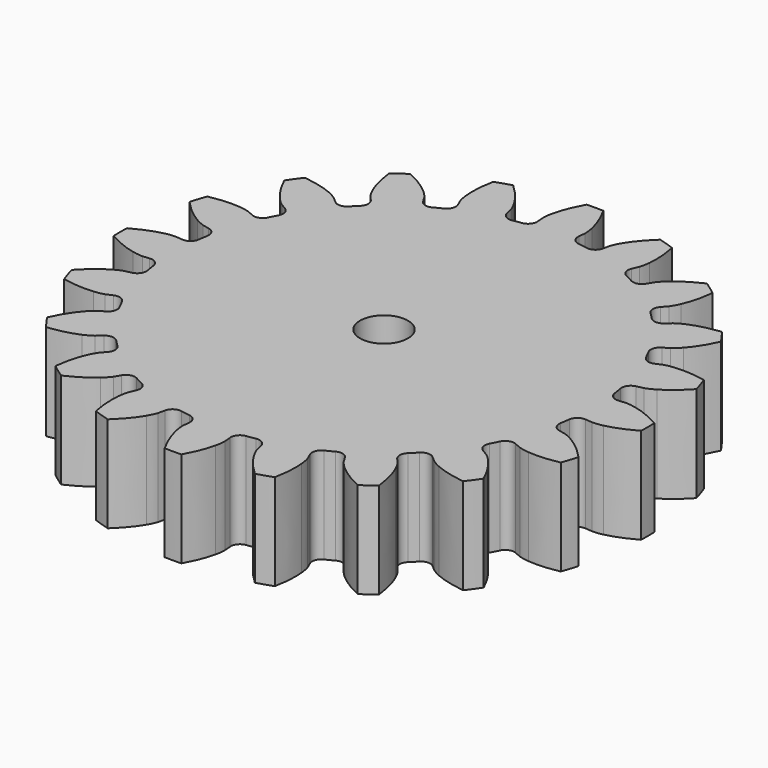
from build123d import *

# Parameters (mm, degrees)
PAD_DEPTH    = 10
SKETCH_R     = 2.5
POCKET_DEPTH = 10.001


with BuildPart() as part:
    # InvoluteGear → Pad (new body)
    with BuildSketch(Plane.XY):
        with BuildLine():
            Line((22.725421, -2.129761), (23.434636, -2.194343))
            add(Edge.make_bspline(
                [(23.434636, -2.194343), (23.552721, -2.198117), (23.908158, -2.19505), (24.50119, -2.06665)],
                knots=[0, 0, 0, 0, 1, 1, 1, 1], degree=3))
            add(Edge.make_bspline(
                [(24.50119, -2.06665), (25.210586, -1.910694), (26.231456, -1.576838), (27.489054, -0.867419)],
                knots=[0, 0, 0, 0, 1, 1, 1, 1], degree=3))
            ThreePointArc((27.489054, -0.867419), (27.501369, 0.00054), (27.486284, 0.868456))
            add(Edge.make_bspline(
                [(27.486284, 0.868456), (26.231456, 1.576838), (25.210586, 1.910694), (24.50119, 2.06665)],
                knots=[0, 0, 0, 0, 1, 1, 1, 1], degree=3))
            add(Edge.make_bspline(
                [(24.50119, 2.06665), (23.908158, 2.19505), (23.552721, 2.198117), (23.434636, 2.194343)],
                knots=[0, 0, 0, 0, 1, 1, 1, 1], degree=3))
            Line((23.434636, 2.194343), (22.725421, 2.129761))
            ThreePointArc((22.725421, 2.129761), (22.034333, 2.323322), (21.675845, 2.945057))
            ThreePointArc((21.675845, 2.945057), (21.605682, 3.422004), (21.525026, 3.897289))
            ThreePointArc((21.525026, 3.897289), (21.673842, 4.599373), (22.271292, 4.997018))
            Line((22.271292, 4.997018), (22.965753, 5.154757))
            add(Edge.make_bspline(
                [(22.965753, 5.154757), (23.079224, 5.187658), (23.416317, 5.300411), (23.940647, 5.605783)],
                knots=[0, 0, 0, 0, 1, 1, 1, 1], degree=3))
            add(Edge.make_bspline(
                [(23.940647, 5.605783), (24.567129, 5.973321), (25.434867, 6.606304), (26.411691, 7.66962)],
                knots=[0, 0, 0, 0, 1, 1, 1, 1], degree=3))
            ThreePointArc((26.411691, 7.66962), (26.155189, 8.498904), (25.872642, 9.319679))
            add(Edge.make_bspline(
                [(25.872642, 9.319679), (24.460327, 9.605627), (23.386255, 9.607678), (22.663387, 9.536785)],
                knots=[0, 0, 0, 0, 1, 1, 1, 1], degree=3))
            add(Edge.make_bspline(
                [(22.663387, 9.536785), (22.059702, 9.475643), (21.720713, 9.368724), (21.609574, 9.328645)],
                knots=[0, 0, 0, 0, 1, 1, 1, 1], degree=3))
            Line((21.609574, 9.328645), (20.955027, 9.048064))
            ThreePointArc((20.955027, 9.048064), (20.23795, 9.018594), (19.704881, 9.49912))
            ThreePointArc((19.704881, 9.49912), (19.490768, 9.931042), (19.267188, 10.358141))
            ThreePointArc((19.267188, 10.358141), (19.191764, 11.071849), (19.637094, 11.634654))
            Line((19.637094, 11.634654), (20.248821, 11.999273))
            add(Edge.make_bspline(
                [(20.248821, 11.999273), (20.346572, 12.065628), (20.632324, 12.27703), (21.036626, 12.729483)],
                knots=[0, 0, 0, 0, 1, 1, 1, 1], degree=3))
            add(Edge.make_bspline(
                [(21.036626, 12.729483), (21.51887, 13.272627), (22.148536, 14.142774), (22.748967, 15.455904)],
                knots=[0, 0, 0, 0, 1, 1, 1, 1], degree=3))
            ThreePointArc((22.748967, 15.455904), (22.248757, 16.165336), (21.726405, 16.858627))
            add(Edge.make_bspline(
                [(21.726405, 16.858627), (20.294852, 16.694151), (19.272715, 16.364195), (18.607133, 16.073393)],
                knots=[0, 0, 0, 0, 1, 1, 1, 1], degree=3))
            add(Edge.make_bspline(
                [(18.607133, 16.073393), (18.051888, 15.828695), (17.762531, 15.622256), (17.669217, 15.549794)],
                knots=[0, 0, 0, 0, 1, 1, 1, 1], degree=3))
            Line((17.669217, 15.549794), (17.133409, 15.08068))
            ThreePointArc((17.133409, 15.08068), (16.460536, 14.831063), (15.805066, 15.123343))
            ThreePointArc((15.805066, 15.123343), (15.467961, 15.467961), (15.123343, 15.805066))
            ThreePointArc((15.123343, 15.805066), (14.831063, 16.460536), (15.08068, 17.133409))
            Line((15.08068, 17.133409), (15.549794, 17.669217))
            add(Edge.make_bspline(
                [(15.549794, 17.669217), (15.622256, 17.762531), (15.828695, 18.051888), (16.073393, 18.607133)],
                knots=[0, 0, 0, 0, 1, 1, 1, 1], degree=3))
            add(Edge.make_bspline(
                [(16.073393, 18.607133), (16.364195, 19.272715), (16.694151, 20.294852), (16.859417, 21.729256)],
                knots=[0, 0, 0, 0, 1, 1, 1, 1], degree=3))
            ThreePointArc((16.859417, 21.729256), (16.164462, 22.249392), (15.453437, 22.747336))
            add(Edge.make_bspline(
                [(15.453437, 22.747336), (14.142774, 22.148536), (13.272627, 21.51887), (12.729483, 21.036626)],
                knots=[0, 0, 0, 0, 1, 1, 1, 1], degree=3))
            add(Edge.make_bspline(
                [(12.729483, 21.036626), (12.27703, 20.632324), (12.065628, 20.346572), (11.999273, 20.248821)],
                knots=[0, 0, 0, 0, 1, 1, 1, 1], degree=3))
            Line((11.999273, 20.248821), (11.634654, 19.637094))
            ThreePointArc((11.634654, 19.637094), (11.071849, 19.191764), (10.358141, 19.267188))
            ThreePointArc((10.358141, 19.267188), (9.931042, 19.490768), (9.49912, 19.704881))
            ThreePointArc((9.49912, 19.704881), (9.018594, 20.23795), (9.048064, 20.955027))
            Line((9.048064, 20.955027), (9.328645, 21.609574))
            add(Edge.make_bspline(
                [(9.328645, 21.609574), (9.368724, 21.720713), (9.475643, 22.059702), (9.536785, 22.663387)],
                knots=[0, 0, 0, 0, 1, 1, 1, 1], degree=3))
            add(Edge.make_bspline(
                [(9.536785, 22.663387), (9.607678, 23.386255), (9.605627, 24.460327), (9.319549, 25.875596)],
                knots=[0, 0, 0, 0, 1, 1, 1, 1], degree=3))
            ThreePointArc((9.319549, 25.875596), (8.497876, 26.155523), (7.667778, 26.409377))
            add(Edge.make_bspline(
                [(7.667778, 26.409377), (6.606304, 25.434867), (5.973321, 24.567129), (5.605783, 23.940647)],
                knots=[0, 0, 0, 0, 1, 1, 1, 1], degree=3))
            add(Edge.make_bspline(
                [(5.605783, 23.940647), (5.300411, 23.416317), (5.187658, 23.079224), (5.154757, 22.965753)],
                knots=[0, 0, 0, 0, 1, 1, 1, 1], degree=3))
            Line((5.154757, 22.965753), (4.997018, 22.271292))
            ThreePointArc((4.997018, 22.271292), (4.599373, 21.673842), (3.897289, 21.525026))
            ThreePointArc((3.897289, 21.525026), (3.422004, 21.605682), (2.945057, 21.675845))
            ThreePointArc((2.945057, 21.675845), (2.323322, 22.034333), (2.129761, 22.725421))
            Line((2.129761, 22.725421), (2.194343, 23.434636))
            add(Edge.make_bspline(
                [(2.194343, 23.434636), (2.198117, 23.552721), (2.19505, 23.908158), (2.06665, 24.50119)],
                knots=[0, 0, 0, 0, 1, 1, 1, 1], degree=3))
            add(Edge.make_bspline(
                [(2.06665, 24.50119), (1.910694, 25.210586), (1.576838, 26.231456), (0.867419, 27.489054)],
                knots=[0, 0, 0, 0, 1, 1, 1, 1], degree=3))
            ThreePointArc((0.867419, 27.489054), (-0.00054, 27.501369), (-0.868456, 27.486284))
            add(Edge.make_bspline(
                [(-0.868456, 27.486284), (-1.576838, 26.231456), (-1.910694, 25.210586), (-2.06665, 24.50119)],
                knots=[0, 0, 0, 0, 1, 1, 1, 1], degree=3))
            add(Edge.make_bspline(
                [(-2.06665, 24.50119), (-2.19505, 23.908158), (-2.198117, 23.552721), (-2.194343, 23.434636)],
                knots=[0, 0, 0, 0, 1, 1, 1, 1], degree=3))
            Line((-2.194343, 23.434636), (-2.129761, 22.725421))
            ThreePointArc((-2.129761, 22.725421), (-2.323322, 22.034333), (-2.945057, 21.675845))
            ThreePointArc((-2.945057, 21.675845), (-3.422004, 21.605682), (-3.897289, 21.525026))
            ThreePointArc((-3.897289, 21.525026), (-4.599373, 21.673842), (-4.997018, 22.271292))
            Line((-4.997018, 22.271292), (-5.154757, 22.965753))
            add(Edge.make_bspline(
                [(-5.154757, 22.965753), (-5.187658, 23.079224), (-5.300411, 23.416317), (-5.605783, 23.940647)],
                knots=[0, 0, 0, 0, 1, 1, 1, 1], degree=3))
            add(Edge.make_bspline(
                [(-5.605783, 23.940647), (-5.973321, 24.567129), (-6.606304, 25.434867), (-7.66962, 26.411691)],
                knots=[0, 0, 0, 0, 1, 1, 1, 1], degree=3))
            ThreePointArc((-7.66962, 26.411691), (-8.498904, 26.155189), (-9.319679, 25.872642))
            add(Edge.make_bspline(
                [(-9.319679, 25.872642), (-9.605627, 24.460327), (-9.607678, 23.386255), (-9.536785, 22.663387)],
                knots=[0, 0, 0, 0, 1, 1, 1, 1], degree=3))
            add(Edge.make_bspline(
                [(-9.536785, 22.663387), (-9.475643, 22.059702), (-9.368724, 21.720713), (-9.328645, 21.609574)],
                knots=[0, 0, 0, 0, 1, 1, 1, 1], degree=3))
            Line((-9.328645, 21.609574), (-9.048064, 20.955027))
            ThreePointArc((-9.048064, 20.955027), (-9.018594, 20.23795), (-9.49912, 19.704881))
            ThreePointArc((-9.49912, 19.704881), (-9.931042, 19.490768), (-10.358141, 19.267188))
            ThreePointArc((-10.358141, 19.267188), (-11.071849, 19.191764), (-11.634654, 19.637094))
            Line((-11.634654, 19.637094), (-11.999273, 20.248821))
            add(Edge.make_bspline(
                [(-11.999273, 20.248821), (-12.065628, 20.346572), (-12.27703, 20.632324), (-12.729483, 21.036626)],
                knots=[0, 0, 0, 0, 1, 1, 1, 1], degree=3))
            add(Edge.make_bspline(
                [(-12.729483, 21.036626), (-13.272627, 21.51887), (-14.142774, 22.148536), (-15.455904, 22.748967)],
                knots=[0, 0, 0, 0, 1, 1, 1, 1], degree=3))
            ThreePointArc((-15.455904, 22.748967), (-16.165336, 22.248757), (-16.858627, 21.726405))
            add(Edge.make_bspline(
                [(-16.858627, 21.726405), (-16.694151, 20.294852), (-16.364195, 19.272715), (-16.073393, 18.607133)],
                knots=[0, 0, 0, 0, 1, 1, 1, 1], degree=3))
            add(Edge.make_bspline(
                [(-16.073393, 18.607133), (-15.828695, 18.051888), (-15.622256, 17.762531), (-15.549794, 17.669217)],
                knots=[0, 0, 0, 0, 1, 1, 1, 1], degree=3))
            Line((-15.549794, 17.669217), (-15.08068, 17.133409))
            ThreePointArc((-15.08068, 17.133409), (-14.831063, 16.460536), (-15.123343, 15.805066))
            ThreePointArc((-15.123343, 15.805066), (-15.467961, 15.467961), (-15.805066, 15.123343))
            ThreePointArc((-15.805066, 15.123343), (-16.460536, 14.831063), (-17.133409, 15.08068))
            Line((-17.133409, 15.08068), (-17.669217, 15.549794))
            add(Edge.make_bspline(
                [(-17.669217, 15.549794), (-17.762531, 15.622256), (-18.051888, 15.828695), (-18.607133, 16.073393)],
                knots=[0, 0, 0, 0, 1, 1, 1, 1], degree=3))
            add(Edge.make_bspline(
                [(-18.607133, 16.073393), (-19.272715, 16.364195), (-20.294852, 16.694151), (-21.729256, 16.859417)],
                knots=[0, 0, 0, 0, 1, 1, 1, 1], degree=3))
            ThreePointArc((-21.729256, 16.859417), (-22.249392, 16.164462), (-22.747336, 15.453437))
            add(Edge.make_bspline(
                [(-22.747336, 15.453437), (-22.148536, 14.142774), (-21.51887, 13.272627), (-21.036626, 12.729483)],
                knots=[0, 0, 0, 0, 1, 1, 1, 1], degree=3))
            add(Edge.make_bspline(
                [(-21.036626, 12.729483), (-20.632324, 12.27703), (-20.346572, 12.065628), (-20.248821, 11.999273)],
                knots=[0, 0, 0, 0, 1, 1, 1, 1], degree=3))
            Line((-20.248821, 11.999273), (-19.637094, 11.634654))
            ThreePointArc((-19.637094, 11.634654), (-19.191764, 11.071849), (-19.267188, 10.358141))
            ThreePointArc((-19.267188, 10.358141), (-19.490768, 9.931042), (-19.704881, 9.49912))
            ThreePointArc((-19.704881, 9.49912), (-20.23795, 9.018594), (-20.955027, 9.048064))
            Line((-20.955027, 9.048064), (-21.609574, 9.328645))
            add(Edge.make_bspline(
                [(-21.609574, 9.328645), (-21.720713, 9.368724), (-22.059702, 9.475643), (-22.663387, 9.536785)],
                knots=[0, 0, 0, 0, 1, 1, 1, 1], degree=3))
            add(Edge.make_bspline(
                [(-22.663387, 9.536785), (-23.386255, 9.607678), (-24.460327, 9.605627), (-25.875596, 9.319549)],
                knots=[0, 0, 0, 0, 1, 1, 1, 1], degree=3))
            ThreePointArc((-25.875596, 9.319549), (-26.155523, 8.497876), (-26.409377, 7.667778))
            add(Edge.make_bspline(
                [(-26.409377, 7.667778), (-25.434867, 6.606304), (-24.567129, 5.973321), (-23.940647, 5.605783)],
                knots=[0, 0, 0, 0, 1, 1, 1, 1], degree=3))
            add(Edge.make_bspline(
                [(-23.940647, 5.605783), (-23.416317, 5.300411), (-23.079224, 5.187658), (-22.965753, 5.154757)],
                knots=[0, 0, 0, 0, 1, 1, 1, 1], degree=3))
            Line((-22.965753, 5.154757), (-22.271292, 4.997018))
            ThreePointArc((-22.271292, 4.997018), (-21.673842, 4.599373), (-21.525026, 3.897289))
            ThreePointArc((-21.525026, 3.897289), (-21.605682, 3.422004), (-21.675845, 2.945057))
            ThreePointArc((-21.675845, 2.945057), (-22.034333, 2.323322), (-22.725421, 2.129761))
            Line((-22.725421, 2.129761), (-23.434636, 2.194343))
            add(Edge.make_bspline(
                [(-23.434636, 2.194343), (-23.552721, 2.198117), (-23.908158, 2.19505), (-24.50119, 2.06665)],
                knots=[0, 0, 0, 0, 1, 1, 1, 1], degree=3))
            add(Edge.make_bspline(
                [(-24.50119, 2.06665), (-25.210586, 1.910694), (-26.231456, 1.576838), (-27.489054, 0.867419)],
                knots=[0, 0, 0, 0, 1, 1, 1, 1], degree=3))
            ThreePointArc((-27.489054, 0.867419), (-27.501369, -0.00054), (-27.486284, -0.868456))
            add(Edge.make_bspline(
                [(-27.486284, -0.868456), (-26.231456, -1.576838), (-25.210586, -1.910694), (-24.50119, -2.06665)],
                knots=[0, 0, 0, 0, 1, 1, 1, 1], degree=3))
            add(Edge.make_bspline(
                [(-24.50119, -2.06665), (-23.908158, -2.19505), (-23.552721, -2.198117), (-23.434636, -2.194343)],
                knots=[0, 0, 0, 0, 1, 1, 1, 1], degree=3))
            Line((-23.434636, -2.194343), (-22.725421, -2.129761))
            ThreePointArc((-22.725421, -2.129761), (-22.034333, -2.323322), (-21.675845, -2.945057))
            ThreePointArc((-21.675845, -2.945057), (-21.605682, -3.422004), (-21.525026, -3.897289))
            ThreePointArc((-21.525026, -3.897289), (-21.673842, -4.599373), (-22.271292, -4.997018))
            Line((-22.271292, -4.997018), (-22.965753, -5.154757))
            add(Edge.make_bspline(
                [(-22.965753, -5.154757), (-23.079224, -5.187658), (-23.416317, -5.300411), (-23.940647, -5.605783)],
                knots=[0, 0, 0, 0, 1, 1, 1, 1], degree=3))
            add(Edge.make_bspline(
                [(-23.940647, -5.605783), (-24.567129, -5.973321), (-25.434867, -6.606304), (-26.411691, -7.66962)],
                knots=[0, 0, 0, 0, 1, 1, 1, 1], degree=3))
            ThreePointArc((-26.411691, -7.66962), (-26.155189, -8.498904), (-25.872642, -9.319679))
            add(Edge.make_bspline(
                [(-25.872642, -9.319679), (-24.460327, -9.605627), (-23.386255, -9.607678), (-22.663387, -9.536785)],
                knots=[0, 0, 0, 0, 1, 1, 1, 1], degree=3))
            add(Edge.make_bspline(
                [(-22.663387, -9.536785), (-22.059702, -9.475643), (-21.720713, -9.368724), (-21.609574, -9.328645)],
                knots=[0, 0, 0, 0, 1, 1, 1, 1], degree=3))
            Line((-21.609574, -9.328645), (-20.955027, -9.048064))
            ThreePointArc((-20.955027, -9.048064), (-20.23795, -9.018594), (-19.704881, -9.49912))
            ThreePointArc((-19.704881, -9.49912), (-19.490768, -9.931042), (-19.267188, -10.358141))
            ThreePointArc((-19.267188, -10.358141), (-19.191764, -11.071849), (-19.637094, -11.634654))
            Line((-19.637094, -11.634654), (-20.248821, -11.999273))
            add(Edge.make_bspline(
                [(-20.248821, -11.999273), (-20.346572, -12.065628), (-20.632324, -12.27703), (-21.036626, -12.729483)],
                knots=[0, 0, 0, 0, 1, 1, 1, 1], degree=3))
            add(Edge.make_bspline(
                [(-21.036626, -12.729483), (-21.51887, -13.272627), (-22.148536, -14.142774), (-22.748967, -15.455904)],
                knots=[0, 0, 0, 0, 1, 1, 1, 1], degree=3))
            ThreePointArc((-22.748967, -15.455904), (-22.248757, -16.165336), (-21.726405, -16.858627))
            add(Edge.make_bspline(
                [(-21.726405, -16.858627), (-20.294852, -16.694151), (-19.272715, -16.364195), (-18.607133, -16.073393)],
                knots=[0, 0, 0, 0, 1, 1, 1, 1], degree=3))
            add(Edge.make_bspline(
                [(-18.607133, -16.073393), (-18.051888, -15.828695), (-17.762531, -15.622256), (-17.669217, -15.549794)],
                knots=[0, 0, 0, 0, 1, 1, 1, 1], degree=3))
            Line((-17.669217, -15.549794), (-17.133409, -15.08068))
            ThreePointArc((-17.133409, -15.08068), (-16.460536, -14.831063), (-15.805066, -15.123343))
            ThreePointArc((-15.805066, -15.123343), (-15.467961, -15.467961), (-15.123343, -15.805066))
            ThreePointArc((-15.123343, -15.805066), (-14.831063, -16.460536), (-15.08068, -17.133409))
            Line((-15.08068, -17.133409), (-15.549794, -17.669217))
            add(Edge.make_bspline(
                [(-15.549794, -17.669217), (-15.622256, -17.762531), (-15.828695, -18.051888), (-16.073393, -18.607133)],
                knots=[0, 0, 0, 0, 1, 1, 1, 1], degree=3))
            add(Edge.make_bspline(
                [(-16.073393, -18.607133), (-16.364195, -19.272715), (-16.694151, -20.294852), (-16.859417, -21.729256)],
                knots=[0, 0, 0, 0, 1, 1, 1, 1], degree=3))
            ThreePointArc((-16.859417, -21.729256), (-16.164462, -22.249392), (-15.453437, -22.747336))
            add(Edge.make_bspline(
                [(-15.453437, -22.747336), (-14.142774, -22.148536), (-13.272627, -21.51887), (-12.729483, -21.036626)],
                knots=[0, 0, 0, 0, 1, 1, 1, 1], degree=3))
            add(Edge.make_bspline(
                [(-12.729483, -21.036626), (-12.27703, -20.632324), (-12.065628, -20.346572), (-11.999273, -20.248821)],
                knots=[0, 0, 0, 0, 1, 1, 1, 1], degree=3))
            Line((-11.999273, -20.248821), (-11.634654, -19.637094))
            ThreePointArc((-11.634654, -19.637094), (-11.071849, -19.191764), (-10.358141, -19.267188))
            ThreePointArc((-10.358141, -19.267188), (-9.931042, -19.490768), (-9.49912, -19.704881))
            ThreePointArc((-9.49912, -19.704881), (-9.018594, -20.23795), (-9.048064, -20.955027))
            Line((-9.048064, -20.955027), (-9.328645, -21.609574))
            add(Edge.make_bspline(
                [(-9.328645, -21.609574), (-9.368724, -21.720713), (-9.475643, -22.059702), (-9.536785, -22.663387)],
                knots=[0, 0, 0, 0, 1, 1, 1, 1], degree=3))
            add(Edge.make_bspline(
                [(-9.536785, -22.663387), (-9.607678, -23.386255), (-9.605627, -24.460327), (-9.319549, -25.875596)],
                knots=[0, 0, 0, 0, 1, 1, 1, 1], degree=3))
            ThreePointArc((-9.319549, -25.875596), (-8.497876, -26.155523), (-7.667778, -26.409377))
            add(Edge.make_bspline(
                [(-7.667778, -26.409377), (-6.606304, -25.434867), (-5.973321, -24.567129), (-5.605783, -23.940647)],
                knots=[0, 0, 0, 0, 1, 1, 1, 1], degree=3))
            add(Edge.make_bspline(
                [(-5.605783, -23.940647), (-5.300411, -23.416317), (-5.187658, -23.079224), (-5.154757, -22.965753)],
                knots=[0, 0, 0, 0, 1, 1, 1, 1], degree=3))
            Line((-5.154757, -22.965753), (-4.997018, -22.271292))
            ThreePointArc((-4.997018, -22.271292), (-4.599373, -21.673842), (-3.897289, -21.525026))
            ThreePointArc((-3.897289, -21.525026), (-3.422004, -21.605682), (-2.945057, -21.675845))
            ThreePointArc((-2.945057, -21.675845), (-2.323322, -22.034333), (-2.129761, -22.725421))
            Line((-2.129761, -22.725421), (-2.194343, -23.434636))
            add(Edge.make_bspline(
                [(-2.194343, -23.434636), (-2.198117, -23.552721), (-2.19505, -23.908158), (-2.06665, -24.50119)],
                knots=[0, 0, 0, 0, 1, 1, 1, 1], degree=3))
            add(Edge.make_bspline(
                [(-2.06665, -24.50119), (-1.910694, -25.210586), (-1.576838, -26.231456), (-0.867419, -27.489054)],
                knots=[0, 0, 0, 0, 1, 1, 1, 1], degree=3))
            ThreePointArc((-0.867419, -27.489054), (0.00054, -27.501369), (0.868456, -27.486284))
            add(Edge.make_bspline(
                [(0.868456, -27.486284), (1.576838, -26.231456), (1.910694, -25.210586), (2.06665, -24.50119)],
                knots=[0, 0, 0, 0, 1, 1, 1, 1], degree=3))
            add(Edge.make_bspline(
                [(2.06665, -24.50119), (2.19505, -23.908158), (2.198117, -23.552721), (2.194343, -23.434636)],
                knots=[0, 0, 0, 0, 1, 1, 1, 1], degree=3))
            Line((2.194343, -23.434636), (2.129761, -22.725421))
            ThreePointArc((2.129761, -22.725421), (2.323322, -22.034333), (2.945057, -21.675845))
            ThreePointArc((2.945057, -21.675845), (3.422004, -21.605682), (3.897289, -21.525026))
            ThreePointArc((3.897289, -21.525026), (4.599373, -21.673842), (4.997018, -22.271292))
            Line((4.997018, -22.271292), (5.154757, -22.965753))
            add(Edge.make_bspline(
                [(5.154757, -22.965753), (5.187658, -23.079224), (5.300411, -23.416317), (5.605783, -23.940647)],
                knots=[0, 0, 0, 0, 1, 1, 1, 1], degree=3))
            add(Edge.make_bspline(
                [(5.605783, -23.940647), (5.973321, -24.567129), (6.606304, -25.434867), (7.66962, -26.411691)],
                knots=[0, 0, 0, 0, 1, 1, 1, 1], degree=3))
            ThreePointArc((7.66962, -26.411691), (8.498904, -26.155189), (9.319679, -25.872642))
            add(Edge.make_bspline(
                [(9.319679, -25.872642), (9.605627, -24.460327), (9.607678, -23.386255), (9.536785, -22.663387)],
                knots=[0, 0, 0, 0, 1, 1, 1, 1], degree=3))
            add(Edge.make_bspline(
                [(9.536785, -22.663387), (9.475643, -22.059702), (9.368724, -21.720713), (9.328645, -21.609574)],
                knots=[0, 0, 0, 0, 1, 1, 1, 1], degree=3))
            Line((9.328645, -21.609574), (9.048064, -20.955027))
            ThreePointArc((9.048064, -20.955027), (9.018594, -20.23795), (9.49912, -19.704881))
            ThreePointArc((9.49912, -19.704881), (9.931042, -19.490768), (10.358141, -19.267188))
            ThreePointArc((10.358141, -19.267188), (11.071849, -19.191764), (11.634654, -19.637094))
            Line((11.634654, -19.637094), (11.999273, -20.248821))
            add(Edge.make_bspline(
                [(11.999273, -20.248821), (12.065628, -20.346572), (12.27703, -20.632324), (12.729483, -21.036626)],
                knots=[0, 0, 0, 0, 1, 1, 1, 1], degree=3))
            add(Edge.make_bspline(
                [(12.729483, -21.036626), (13.272627, -21.51887), (14.142774, -22.148536), (15.455904, -22.748967)],
                knots=[0, 0, 0, 0, 1, 1, 1, 1], degree=3))
            ThreePointArc((15.455904, -22.748967), (16.165336, -22.248757), (16.858627, -21.726405))
            add(Edge.make_bspline(
                [(16.858627, -21.726405), (16.694151, -20.294852), (16.364195, -19.272715), (16.073393, -18.607133)],
                knots=[0, 0, 0, 0, 1, 1, 1, 1], degree=3))
            add(Edge.make_bspline(
                [(16.073393, -18.607133), (15.828695, -18.051888), (15.622256, -17.762531), (15.549794, -17.669217)],
                knots=[0, 0, 0, 0, 1, 1, 1, 1], degree=3))
            Line((15.549794, -17.669217), (15.08068, -17.133409))
            ThreePointArc((15.08068, -17.133409), (14.831063, -16.460536), (15.123343, -15.805066))
            ThreePointArc((15.123343, -15.805066), (15.467961, -15.467961), (15.805066, -15.123343))
            ThreePointArc((15.805066, -15.123343), (16.460536, -14.831063), (17.133409, -15.08068))
            Line((17.133409, -15.08068), (17.669217, -15.549794))
            add(Edge.make_bspline(
                [(17.669217, -15.549794), (17.762531, -15.622256), (18.051888, -15.828695), (18.607133, -16.073393)],
                knots=[0, 0, 0, 0, 1, 1, 1, 1], degree=3))
            add(Edge.make_bspline(
                [(18.607133, -16.073393), (19.272715, -16.364195), (20.294852, -16.694151), (21.729256, -16.859417)],
                knots=[0, 0, 0, 0, 1, 1, 1, 1], degree=3))
            ThreePointArc((21.729256, -16.859417), (22.249392, -16.164462), (22.747336, -15.453437))
            add(Edge.make_bspline(
                [(22.747336, -15.453437), (22.148536, -14.142774), (21.51887, -13.272627), (21.036626, -12.729483)],
                knots=[0, 0, 0, 0, 1, 1, 1, 1], degree=3))
            add(Edge.make_bspline(
                [(21.036626, -12.729483), (20.632324, -12.27703), (20.346572, -12.065628), (20.248821, -11.999273)],
                knots=[0, 0, 0, 0, 1, 1, 1, 1], degree=3))
            Line((20.248821, -11.999273), (19.637094, -11.634654))
            ThreePointArc((19.637094, -11.634654), (19.191764, -11.071849), (19.267188, -10.358141))
            ThreePointArc((19.267188, -10.358141), (19.490768, -9.931042), (19.704881, -9.49912))
            ThreePointArc((19.704881, -9.49912), (20.23795, -9.018594), (20.955027, -9.048064))
            Line((20.955027, -9.048064), (21.609574, -9.328645))
            add(Edge.make_bspline(
                [(21.609574, -9.328645), (21.720713, -9.368724), (22.059702, -9.475643), (22.663387, -9.536785)],
                knots=[0, 0, 0, 0, 1, 1, 1, 1], degree=3))
            add(Edge.make_bspline(
                [(22.663387, -9.536785), (23.386255, -9.607678), (24.460327, -9.605627), (25.875596, -9.319549)],
                knots=[0, 0, 0, 0, 1, 1, 1, 1], degree=3))
            ThreePointArc((25.875596, -9.319549), (26.155523, -8.497876), (26.409377, -7.667778))
            add(Edge.make_bspline(
                [(26.409377, -7.667778), (25.434867, -6.606304), (24.567129, -5.973321), (23.940647, -5.605783)],
                knots=[0, 0, 0, 0, 1, 1, 1, 1], degree=3))
            add(Edge.make_bspline(
                [(23.940647, -5.605783), (23.416317, -5.300411), (23.079224, -5.187658), (22.965753, -5.154757)],
                knots=[0, 0, 0, 0, 1, 1, 1, 1], degree=3))
            Line((22.965753, -5.154757), (22.271292, -4.997018))
            ThreePointArc((22.271292, -4.997018), (21.673842, -4.599373), (21.525026, -3.897289))
            ThreePointArc((21.525026, -3.897289), (21.605682, -3.422004), (21.675845, -2.945057))
            ThreePointArc((21.675845, -2.945057), (22.034333, -2.323322), (22.725421, -2.129761))
        make_face()
    extrude(amount=PAD_DEPTH)

    # Sketch (on Face202 of Pad) → Pocket (cut, through all)
    with BuildSketch(Plane.XY.offset(10)):
        Circle(SKETCH_R)
    extrude(amount=-POCKET_DEPTH, mode=Mode.SUBTRACT)


solid = part.part
